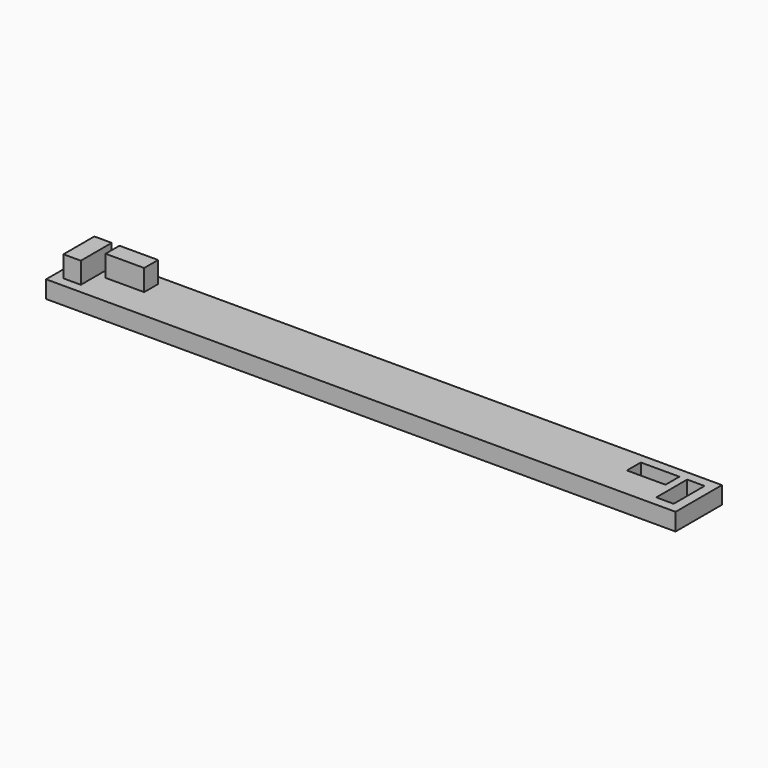
from build123d import *

# Parameters (mm, degrees)
F0_W     = 163
F0_H     = 30
F0_W_2   = 9
F0_H_2   = 20
F0_W_3   = 20
F0_H_3   = 9
F1_DEPTH = 9
F2_DEPTH = 20


with BuildPart() as f1:
    # F0 (on Top) → F1 (new body)
    with BuildSketch(Plane.XY):
        with Locations((-81.5, 0)):
            Rectangle(F0_W, F0_H)
        with Locations((-153.5, 0)):
            Rectangle(F0_W_2, F0_H_2, mode=Mode.SUBTRACT)
        with Locations((-135, 5.5)):
            Rectangle(F0_W_3, F0_H_3, mode=Mode.SUBTRACT)
    extrude(amount=F1_DEPTH)

    # F3: F1 across face


with BuildPart() as f2:
    # F0 (on Top) → F2 (new body)
    with BuildSketch(Plane.XY):
        with Locations((-153.5, 0)):
            Rectangle(F0_W_2, F0_H_2)
        with Locations((-135, 5.5)):
            Rectangle(F0_W_3, F0_H_3)
    extrude(amount=F2_DEPTH)


with BuildPart() as f1_1:
    add(f1.part)
    add(f1.part.mirror(Plane(origin=(0, 0, 4.5), x_dir=(0, 1, 0), z_dir=(1, 0, 0))))


solid = Compound([f2.part, f1_1.part])
